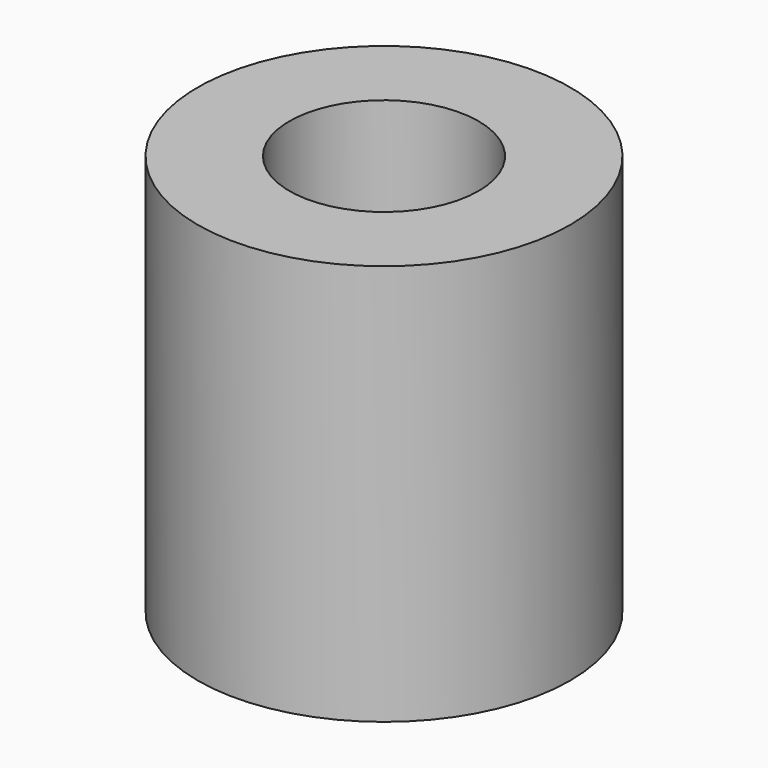
from build123d import *

# Parameters (mm, degrees)
SKETCH_R     = 3.25
PAD_DEPTH    = 7
SKETCH001_R  = 1.65
POCKET_DEPTH = 10


with BuildPart() as part:
    # Sketch → Pad (new body)
    with BuildSketch(Plane.XY):
        Circle(SKETCH_R)
    extrude(amount=PAD_DEPTH)

    # Sketch001 (on Face3 of Pad) → Pocket (cut)
    with BuildSketch(Plane.XY.offset(7)):
        Circle(SKETCH001_R)
    extrude(amount=-POCKET_DEPTH, mode=Mode.SUBTRACT)


solid = part.part
